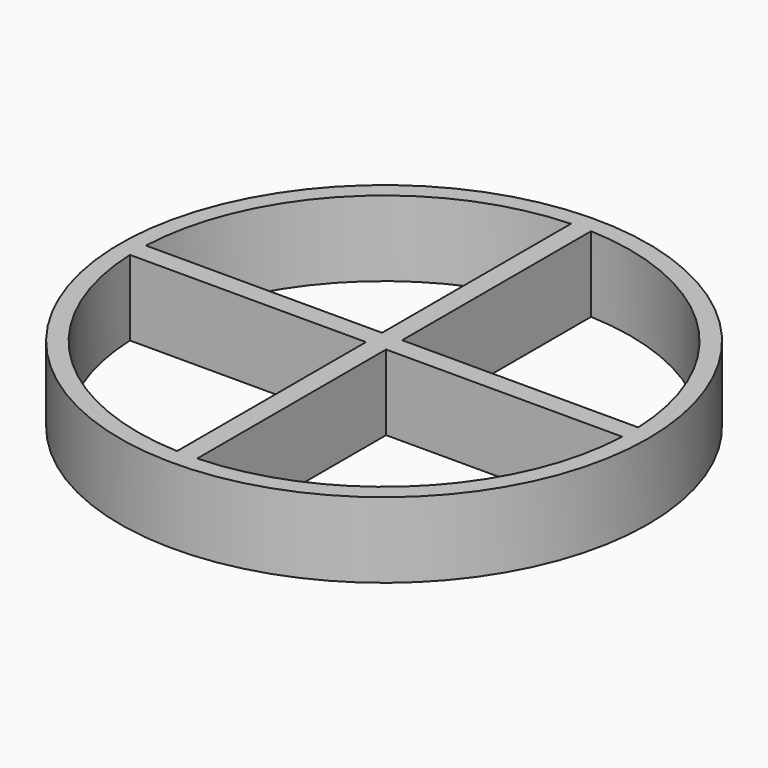
from build123d import *

# Parameters (mm, degrees)
F0_R     = 10.5
F1_DEPTH = 3


with BuildPart() as f1:
    # F0 (on Top) → F1 (new body)
    with BuildSketch(Plane.XY):
        Circle(F0_R)
        with BuildLine():
            Line((-0.4, -0.4), (-0.4, -9.791833))
            ThreePointArc((-0.4, -9.791833), (-6.929646, -6.929646), (-9.791833, -0.4))
            Line((-9.791833, -0.4), (-0.4, -0.4))
        make_face(mode=Mode.SUBTRACT)
        with BuildLine():
            Line((0.4, -0.4), (9.791833, -0.4))
            ThreePointArc((9.791833, -0.4), (6.929646, -6.929646), (0.4, -9.791833))
            Line((0.4, -9.791833), (0.4, -0.4))
        make_face(mode=Mode.SUBTRACT)
        with BuildLine():
            ThreePointArc((-9.791833, 0.4), (-6.929646, 6.929646), (-0.4, 9.791833))
            Line((-0.4, 9.791833), (-0.4, 0.4))
            Line((-0.4, 0.4), (-9.791833, 0.4))
        make_face(mode=Mode.SUBTRACT)
        with BuildLine():
            Line((0.4, 0.4), (0.4, 9.791833))
            ThreePointArc((0.4, 9.791833), (6.929646, 6.929646), (9.791833, 0.4))
            Line((9.791833, 0.4), (0.4, 0.4))
        make_face(mode=Mode.SUBTRACT)
    extrude(amount=F1_DEPTH)


solid = f1.part
